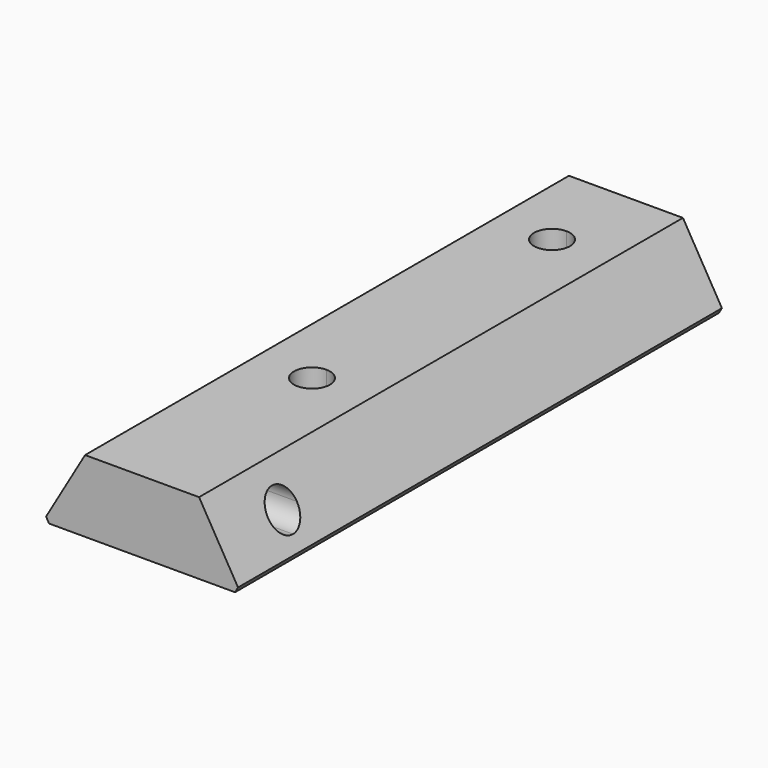
from build123d import *

# Parameters (mm, degrees)
F1_DEPTH      = 50.4
F3_DEPTH      = 6.001
F4_DEPTH      = 2.5
F6_DEPTH      = 8.251
F6_DEPTH_BACK = 8.251
F7_SIZE       = 0.5


with BuildPart() as f1:
    # F0 (on Front) → F1 (new body)
    with BuildSketch(Plane.XZ):
        Polygon((8.25, 0), (4.75, 6), (-4.75, 6), (-8.25, 0), align=None)
    extrude(amount=F1_DEPTH)

    # F2 (on Top) → F3 (cut, through all)
    with BuildSketch(Plane.XY):
        with BuildLine():
            ThreePointArc((1.5, -32.7), (1.0606601718, -31.6393398282), (0, -31.2))
            ThreePointArc((0, -31.2), (-1.0606601718, -33.7606601718), (1.5, -32.7))
        make_face()
        with BuildLine():
            ThreePointArc((0, -6.2), (-1.5, -7.7), (0, -9.2))
            Line((0, -9.2), (0, -6.2))
        make_face()
        with BuildLine():
            Line((0, -6.2), (0, -9.2))
            ThreePointArc((0, -9.2), (1.0606601718, -8.7606601718), (1.5, -7.7))
            ThreePointArc((1.5, -7.7), (1.0606601718, -6.6393398282), (0, -6.2))
        make_face()
    extrude(amount=F3_DEPTH, mode=Mode.SUBTRACT)

    # F2 (on Top) → F4 (cut)
    with BuildSketch(Plane.XY):
        Polygon((2.75, -31.1122867597), (0, -29.5245735195), (-2.75, -31.1122867597), (-2.75, -34.2877132403), (0, -35.8754264805), (2.75, -34.2877132403), align=None)
        with BuildLine():
            ThreePointArc((1.5, -32.7), (-1.0606601718, -33.7606601718), (0, -31.2))
            ThreePointArc((0, -31.2), (1.0606601718, -31.6393398282), (1.5, -32.7))
        make_face(mode=Mode.SUBTRACT)
        with BuildLine():
            Line((-2.75, -9.2877132403), (0, -10.8754264805))
            Line((0, -10.8754264805), (0, -9.2))
            ThreePointArc((0, -9.2), (-1.5, -7.7), (0, -6.2))
            Line((0, -6.2), (0, -4.5245735195))
            Line((0, -4.5245735195), (-2.75, -6.1122867597))
            Line((-2.75, -6.1122867597), (-2.75, -9.2877132403))
        make_face()
        with BuildLine():
            Line((0, -9.2), (0, -10.8754264805))
            Line((0, -10.8754264805), (2.75, -9.2877132403))
            Line((2.75, -9.2877132403), (2.75, -6.1122867597))
            Line((2.75, -6.1122867597), (0, -4.5245735195))
            Line((0, -4.5245735195), (0, -6.2))
            ThreePointArc((0, -6.2), (1.0606601718, -6.6393398282), (1.5, -7.7))
            ThreePointArc((1.5, -7.7), (1.0606601718, -8.7606601718), (0, -9.2))
        make_face()
    extrude(amount=F4_DEPTH, mode=Mode.SUBTRACT)

    # F5 (on Right) → F6 (cut, two sides)
    with BuildSketch(Plane.YZ) as f6_sk:
        with BuildLine():
            ThreePointArc((-43.9, 4.5), (-45.4, 3), (-43.9, 1.5))
            Line((-43.9, 1.5), (-43.9, 4.5))
        make_face()
        with BuildLine():
            Line((-43.9, 4.5), (-43.9, 1.5))
            ThreePointArc((-43.9, 1.5), (-42.8393398282, 1.9393398282), (-42.4, 3))
            ThreePointArc((-42.4, 3), (-42.8393398282, 4.0606601718), (-43.9, 4.5))
        make_face()
    extrude(amount=-F6_DEPTH, mode=Mode.SUBTRACT)
    extrude(f6_sk.sketch, amount=F6_DEPTH_BACK, mode=Mode.SUBTRACT)

    # F7
    f7_edges = [f1.edges().sort_by_distance(p)[0] for p in [
        (-8.25, -25.2, 0),
        (8.25, -25.2, 0),
    ]]
    chamfer(f7_edges, length=F7_SIZE)


solid = f1.part
